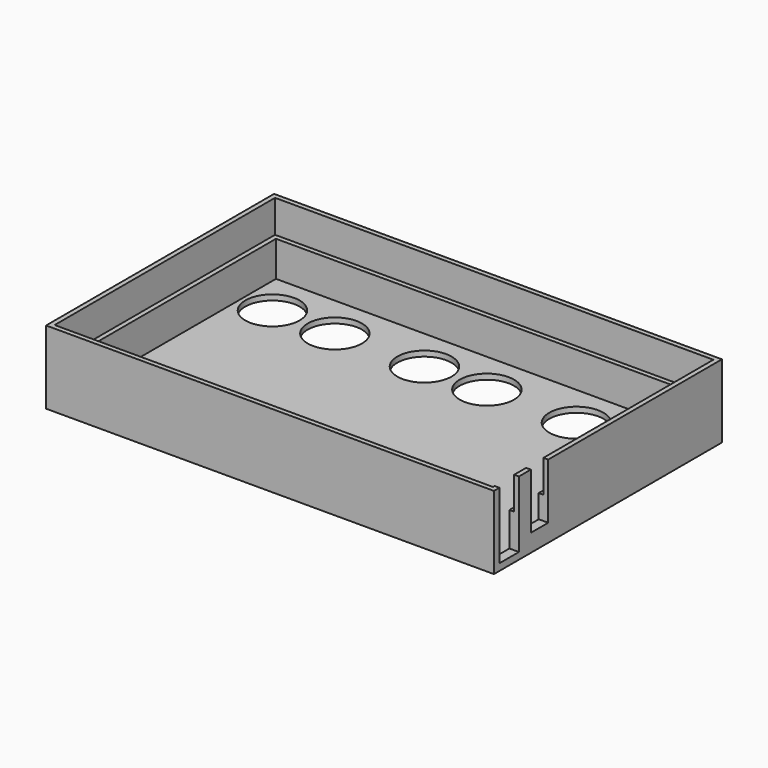
from build123d import *

# Parameters (mm, degrees)
SKETCH_W        = 165
SKETCH_H        = 105
PAD_DEPTH       = 27
SKETCH001_W     = 158
SKETCH001_H     = 98
POCKET_DEPTH    = 25
SKETCH002_W     = 161.5
SKETCH002_H     = 101.5
POCKET001_DEPTH = 12
SKETCH003_R     = 10
POCKET002_DEPTH = 27.001
SKETCH004_W     = 17.5
SKETCH004_H     = 9
POCKET003_DEPTH = 24.5
SKETCH005_W     = 15
SKETCH005_H     = 8
POCKET004_DEPTH = 20.5


with BuildPart() as part:
    # Sketch → Pad (new body)
    with BuildSketch(Plane.XY):
        with Locations((82.5, 52.5)):
            Rectangle(SKETCH_W, SKETCH_H)
    extrude(amount=PAD_DEPTH)

    # Sketch001 → Pocket (cut)
    with BuildSketch(Plane.XY.offset(27)):
        with Locations((82.5, 52.5)):
            Rectangle(SKETCH001_W, SKETCH001_H)
    extrude(amount=-POCKET_DEPTH, mode=Mode.SUBTRACT)

    # Sketch002 → Pocket001 (cut)
    with BuildSketch(Plane.XY.offset(27)):
        with Locations((82.5, 52.5)):
            Rectangle(SKETCH002_W, SKETCH002_H)
    extrude(amount=-POCKET001_DEPTH, mode=Mode.SUBTRACT)

    # Sketch003 → Pocket002 (cut, through all)
    with BuildSketch(Plane(origin=(0, 0, 0), x_dir=(1, 0, 0), z_dir=(0, 0, -1))):
        with Locations((15, -85.5)):
            Circle(SKETCH003_R)
        with Locations((38, -85.5)):
            Circle(SKETCH003_R)
        with Locations((71, -85.5)):
            Circle(SKETCH003_R)
        with Locations((94, -85.5)):
            Circle(SKETCH003_R)
        with Locations((127, -85.5)):
            Circle(SKETCH003_R)
        with Locations((150, -85.5)):
            Circle(SKETCH003_R)
    extrude(amount=-POCKET002_DEPTH, mode=Mode.SUBTRACT)

    # Sketch004 → Pocket003 (cut)
    with BuildSketch(Plane.XY.offset(27)):
        with Locations((156.25, 7)):
            Rectangle(SKETCH004_W, SKETCH004_H)
    extrude(amount=-POCKET003_DEPTH, mode=Mode.SUBTRACT)

    # Sketch005 → Pocket004 (cut)
    with BuildSketch(Plane.XY.offset(27)):
        with Locations((157.5, 21)):
            Rectangle(SKETCH005_W, SKETCH005_H)
    extrude(amount=-POCKET004_DEPTH, mode=Mode.SUBTRACT)


solid = part.part
